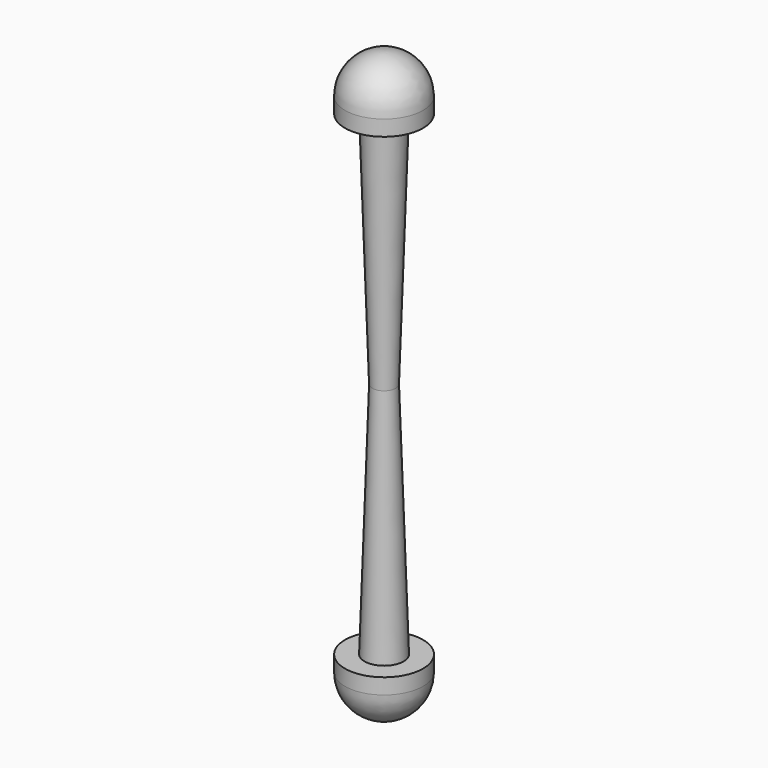
from build123d import *


with BuildPart() as f1:
    # F0 (on Front) → F1 (revolve)
    with BuildSketch(Plane.XZ):
        Polygon((0, 32.483602), (0, 0), (0, -32.483602), (5, -32.483602), (5, -30.483602), (2.5, -30.483602), (1.5, 0), (2.5, 30.483602), (5, 30.483602), (5, 32.483602), align=None)
        with BuildLine():
            Line((5, -32.483602), (0, -32.483602))
            Line((0, -32.483602), (0, -37.483602))
            ThreePointArc((0, -37.483602), (3.535534, -36.019136), (5, -32.483602))
        make_face()
        with BuildLine():
            Line((0, 37.483602), (0, 32.483602))
            Line((0, 32.483602), (5, 32.483602))
            ThreePointArc((5, 32.483602), (3.535534, 36.019136), (0, 37.483602))
        make_face()
    revolve(axis=Axis((0, 0, 16.241801), (0, 0, 1)))


solid = f1.part
